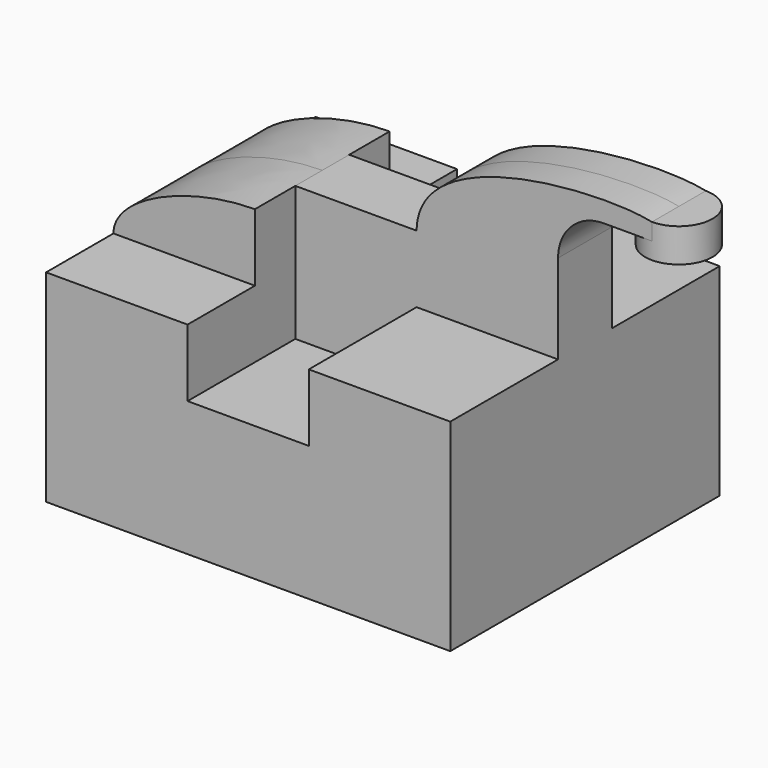
from build123d import *

# Parameters (mm, degrees)
F1_DEPTH = 50
F2_DEPTH = 25
F0_W     = 36
F0_H     = 20
F3_DEPTH = 10
F4_DEPTH = 10


with BuildPart() as f1:
    # F0 (on Front) → F1 (new body, symmetric)
    with BuildSketch(Plane.XZ):
        Polygon((-60, -30), (60, -30), (60, 30), (18, 30), (18, 10), (-18, 10), (-18, 30), (-60, 30), align=None)
    extrude(amount=F1_DEPTH, both=True)

    # F0 (on Front) → F2 (join, symmetric)
    with BuildSketch(Plane.XZ):
        with BuildLine():
            add(Edge.make_bspline(
                [(-60, 30), (-60, 40.4474846921), (-37.2177352662, 50), (-18, 50)],
                knots=[0, 0, 0, 0, 46.5188133985, 46.5188133985, 46.5188133985, 46.5188133985], degree=3))
            Line((-60, 30), (-18, 30))
            Line((-18, 30), (-18, 50))
        make_face()
    extrude(amount=F2_DEPTH, both=True)

    # F0 (on Front) → F3 (join, symmetric)
    with BuildSketch(Plane.XZ):
        with Locations((0, 20)):
            Rectangle(F0_W, F0_H)
    extrude(amount=F3_DEPTH, both=True)

    # F0 (on Front) → F4 (join, symmetric)
    with BuildSketch(Plane.XZ):
        with Locations((0, 40)):
            Rectangle(F0_W, F0_H)
        with BuildLine():
            Line((18, 30), (60, 30))
            Line((60, 30), (60, 56.5))
            ThreePointArc((60, 56.5), (63.954058454, 66.045941546), (73.5, 70))
            Line((73.5, 70), (87.8666490715, 70))
            Line((87.8666490715, 70), (87.8666490715, 75))
            add(Edge.make_bspline(
                [(18, 50), (18.3067479085, 75.1533858136), (72.5292141174, 78.3742428055), (87.8666490715, 75)],
                knots=[0, 0, 0, 0, 74.2047751326, 74.2047751326, 74.2047751326, 74.2047751326], degree=3))
            Line((18, 50), (18, 30))
        make_face()
    extrude(amount=F4_DEPTH, both=True)

    # F0 (on Front) → F5 (revolve)
    with BuildSketch(Plane.XZ):
        Polygon((97.8666490715, 75), (87.8666490715, 75), (87.8666490715, 70), (92.8666490715, 70), (92.8666490715, 65), (97.8666490715, 65), align=None)
    revolve(axis=Axis((87.8666490715, 0, 70), (0, 0, 1)))


solid = f1.part
